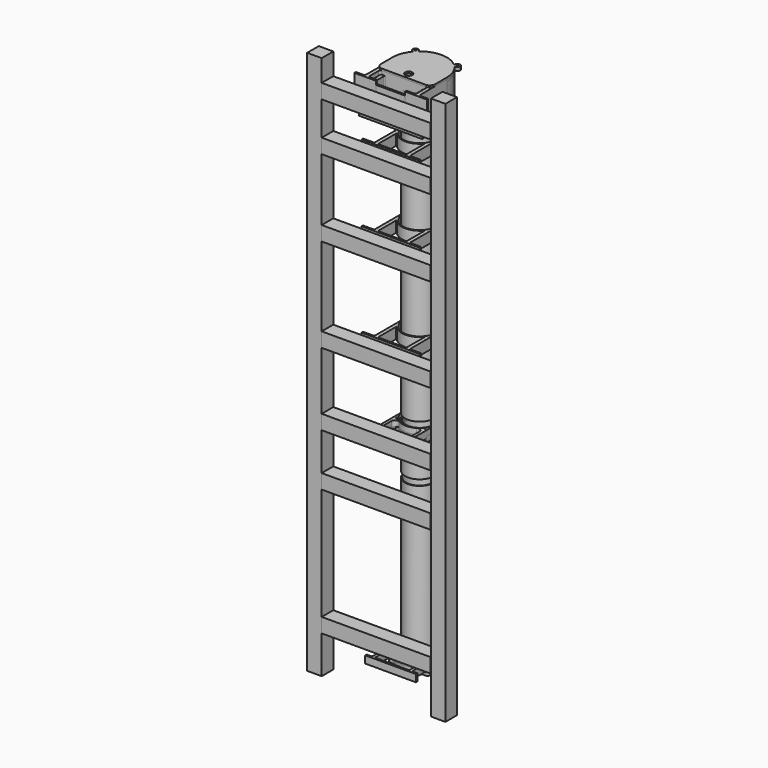
from build123d import *

# Parameters (mm, degrees)
SKETCH032_R             = 40
SKETCH032_R_2           = 38
PAD025_DEPTH            = 124
SKETCH039_R             = 40
SKETCH039_R_2           = 38
PAD031_DEPTH            = 586.5
SKETCH040_R             = 40
SKETCH040_R_2           = 38
PAD032_DEPTH            = 157
SKETCH041_R             = 40
SKETCH041_R_2           = 38
PAD033_DEPTH            = 423.5
SKETCH049_W             = 40
SKETCH049_H             = 40
PAD039_DEPTH            = 1500
SKETCH050_W             = 40
SKETCH050_H             = 40
PAD040_DEPTH            = 300
BODY012_PLACEMENT_ANGLE = 90
SKETCH053_W             = 40
SKETCH053_H             = 40
PAD043_DEPTH            = 300
BODY013_PLACEMENT_ANGLE = 90
SKETCH054_W             = 40
SKETCH054_H             = 40
PAD044_DEPTH            = 300
BODY014_PLACEMENT_ANGLE = 90
SKETCH067_W             = 40
SKETCH067_H             = 40
PAD055_DEPTH            = 300
BODY017_PLACEMENT_ANGLE = 90
SKETCH068_W             = 40
SKETCH068_H             = 40
PAD056_DEPTH            = 300
BODY018_PLACEMENT_ANGLE = 90
SKETCH072_W             = 40
SKETCH072_H             = 40
PAD060_DEPTH            = 1500
SKETCH078_W             = 40
SKETCH078_H             = 40
PAD065_DEPTH            = 300
BODY025_PLACEMENT_ANGLE = 90
SKETCH099_W             = 40
SKETCH099_H             = 40
PAD090_DEPTH            = 300
BODY030_PLACEMENT_ANGLE = 90
PAD101_DEPTH            = 30
SKETCH329_R             = 2.3
POCKET060_DEPTH         = 30
SKETCH330_R             = 3.25
POCKET061_DEPTH         = 5
SKETCH124_R             = 2.25
PAD102_DEPTH            = 10
SKETCH125_R             = 2.25
PAD103_DEPTH            = 5
SKETCH326_R             = 2.25
PAD_DEPTH               = 5
SKETCH327_R             = 2.25
POCKET058_DEPTH         = 83.001
SKETCH328_R             = 3.25
POCKET059_DEPTH         = 5
SKETCH135_R             = 2.25
PAD106_DEPTH            = 10
SKETCH136_R             = 2.25
PAD107_DEPTH            = 5
SKETCH137_R             = 2.25
POCKET017_DEPTH         = 55.001
PAD244_DEPTH            = 10
PAD245_DEPTH            = 5
PAD246_DEPTH            = 10
SKETCH316_R             = 2.25
POCKET054_DEPTH         = 78.001
SKETCH318_R             = 2.25
POCKET055_DEPTH         = 20.001
SKETCH317_R             = 2.25
PAD247_DEPTH            = 10
SKETCH319_R             = 2.25
PAD248_DEPTH            = 5
SKETCH320_R             = 2.25
POCKET056_DEPTH         = 63.001
BODY099_PLACEMENT_ANGLE = 180
SKETCH324_R             = 2.25
SKETCH324_R_2           = 7.5
PAD254_DEPTH            = 5
PAD255_DEPTH            = 5
SKETCH332_W             = 30
SKETCH332_H             = 5
PAD256_DEPTH            = 50
SKETCH333_R             = 2.2
POCKET062_DEPTH         = 5
SKETCH335_R             = 46
PAD258_DEPTH            = 10
PAD259_DEPTH            = 75
SKETCH337_R             = 2.25
PAD260_DEPTH            = 5
SKETCH338_R             = 1.7
POCKET063_DEPTH         = 5
SKETCH339_R             = 3.25
POCKET064_DEPTH         = 5
SKETCH_R                = 50
PAD261_DEPTH            = 5
PAD262_DEPTH            = 80
SKETCH341_R             = 2.25
PAD263_DEPTH            = 5
POCKET_DEPTH            = 5
SKETCH345_R             = 10
POCKET066_DEPTH         = 10
SKETCH346_R             = 1.7
POCKET067_DEPTH         = 5
SKETCH342_R             = 2.25
SKETCH342_R_2           = 10
PAD264_DEPTH            = 5


with BuildPart() as w2_to_w3_pipe:
    # Sketch032 → Pad025 (new body)
    with BuildSketch(Plane.XY):
        Circle(SKETCH032_R)
        Circle(SKETCH032_R_2, mode=Mode.SUBTRACT)
    extrude(amount=PAD025_DEPTH)


with BuildPart() as w2_to_w3_pipe_1:
    # Body005 placement: moved
    add(w2_to_w3_pipe.part.moved(Location((0, 0, 16))))


with BuildPart() as w3_to_end:
    # Sketch039 → Pad031 (new body)
    with BuildSketch(Plane.XY):
        Circle(SKETCH039_R)
        Circle(SKETCH039_R_2, mode=Mode.SUBTRACT)
    extrude(amount=PAD031_DEPTH)


with BuildPart() as w3_to_end_1:
    # Body007 placement: moved
    add(w3_to_end.part.moved(Location((0, 0, 156))))


with BuildPart() as end_to_sample:
    # Sketch040 → Pad032 (new body)
    with BuildSketch(Plane.XY):
        Circle(SKETCH040_R)
        Circle(SKETCH040_R_2, mode=Mode.SUBTRACT)
    extrude(amount=PAD032_DEPTH)


with BuildPart() as end_to_sample_1:
    # Body008 placement: moved
    add(end_to_sample.part.moved(Location((0, 0, 743))))


with BuildPart() as top_to_w2:
    # Sketch041 → Pad033 (new body)
    with BuildSketch(Plane.XY):
        Circle(SKETCH041_R)
        Circle(SKETCH041_R_2, mode=Mode.SUBTRACT)
    extrude(amount=-PAD033_DEPTH)


with BuildPart() as extrusion1:
    # Sketch049 → Pad039 (new body)
    with BuildSketch(Plane.XY):
        Rectangle(SKETCH049_W, SKETCH049_H)
    extrude(amount=PAD039_DEPTH)


with BuildPart() as extrusion1_1:
    # Body011 placement: moved
    add(extrusion1.part.moved(Location((-166, -135, -467))))


with BuildPart() as extrusion002:
    # Sketch050 → Pad040 (new body)
    with BuildSketch(Plane.XY):
        Rectangle(SKETCH050_W, SKETCH050_H)
    extrude(amount=PAD040_DEPTH)


with BuildPart() as extrusion002_1:
    # Body012 placement: moved
    add(extrusion002.part.moved(Location((-146, -135, 350))).rotate(Axis((-146, -135, 350), (0, 1, 0)), BODY012_PLACEMENT_ANGLE))


with BuildPart() as extrusion003:
    # Sketch053 → Pad043 (new body)
    with BuildSketch(Plane.XY):
        Rectangle(SKETCH053_W, SKETCH053_H)
    extrude(amount=PAD043_DEPTH)


with BuildPart() as extrusion003_1:
    # Body013 placement: moved
    add(extrusion003.part.moved(Location((-146, -135, 150))).rotate(Axis((-146, -135, 150), (0, 1, 0)), BODY013_PLACEMENT_ANGLE))


with BuildPart() as extrusion004:
    # Sketch054 → Pad044 (new body)
    with BuildSketch(Plane.XY):
        Rectangle(SKETCH054_W, SKETCH054_H)
    extrude(amount=PAD044_DEPTH)


with BuildPart() as extrusion004_1:
    # Body014 placement: moved
    add(extrusion004.part.moved(Location((-146, -135, 6))).rotate(Axis((-146, -135, 6), (0, 1, 0)), BODY014_PLACEMENT_ANGLE))


with BuildPart() as extrusion005:
    # Sketch067 → Pad055 (new body)
    with BuildSketch(Plane.XY):
        Rectangle(SKETCH067_W, SKETCH067_H)
    extrude(amount=PAD055_DEPTH)


with BuildPart() as extrusion005_1:
    # Body017 placement: moved
    add(extrusion005.part.moved(Location((-146, -135, -343))).rotate(Axis((-146, -135, -343), (0, 1, 0)), BODY017_PLACEMENT_ANGLE))


with BuildPart() as extrusion006:
    # Sketch068 → Pad056 (new body)
    with BuildSketch(Plane.XY):
        Rectangle(SKETCH068_W, SKETCH068_H)
    extrude(amount=PAD056_DEPTH)


with BuildPart() as extrusion006_1:
    # Body018 placement: moved
    add(extrusion006.part.moved(Location((-146, -135, 820))).rotate(Axis((-146, -135, 820), (0, 1, 0)), BODY018_PLACEMENT_ANGLE))


with BuildPart() as extrusion010:
    # Sketch072 → Pad060 (new body)
    with BuildSketch(Plane.XY):
        Rectangle(SKETCH072_W, SKETCH072_H)
    extrude(amount=PAD060_DEPTH)


with BuildPart() as extrusion010_1:
    # Body022 placement: moved
    add(extrusion010.part.moved(Location((175, -135, -467))))


with BuildPart() as extrusion012:
    # Sketch078 → Pad065 (new body)
    with BuildSketch(Plane.XY):
        Rectangle(SKETCH078_W, SKETCH078_H)
    extrude(amount=PAD065_DEPTH)


with BuildPart() as extrusion012_1:
    # Body025 placement: moved
    add(extrusion012.part.moved(Location((-146, -135, 608))).rotate(Axis((-146, -135, 608), (0, 1, 0)), BODY025_PLACEMENT_ANGLE))


with BuildPart() as extrusion013:
    # Sketch099 → Pad090 (new body)
    with BuildSketch(Plane.XY):
        Rectangle(SKETCH099_W, SKETCH099_H)
    extrude(amount=PAD090_DEPTH)


with BuildPart() as extrusion013_1:
    # Body030 placement: moved
    add(extrusion013.part.moved(Location((-146, -135, 953))).rotate(Axis((-146, -135, 953), (0, 1, 0)), BODY030_PLACEMENT_ANGLE))


with BuildPart() as pipesupport001:
    # Sketch121 → Pad101 (new body)
    with BuildSketch(Plane.XY):
        with BuildLine():
            ThreePointArc((-6.328542, 45.562589), (0, -46), (6.328542, 45.562589))
            ThreePointArc((4, 48.236915), (4.663712, 46.463915), (6.328542, 45.562589))
            Line((4, 48.236915), (4, 59.009999))
            ThreePointArc((5, 60.009999), (4.292893, 59.717106), (4, 59.009999))
            Line((5, 60.009999), (7, 60.009999))
            ThreePointArc((8, 59.009999), (7.707107, 59.717106), (7, 60.009999))
            Line((8, 50.009999), (8, 59.009999))
            ThreePointArc((8, 50.009999), (8.45334, 48.741991), (9.607843, 48.048823))
            ThreePointArc((49, 0), (37.893168, 31.066185), (9.607843, 48.048823))
            Line((49, 0), (49, -92))
            ThreePointArc((49, -92), (49.87868, -94.12132), (52, -95))
            Line((52, -95), (79, -95))
            ThreePointArc((80, -96), (79.707107, -95.292893), (79, -95))
            Line((80, -100), (80, -96))
            Line((-80, -100), (80, -100))
            Line((-80, -100), (-80, -96))
            ThreePointArc((-79, -95), (-79.707107, -95.292893), (-80, -96))
            Line((-52, -95), (-79, -95))
            ThreePointArc((-52, -95), (-49.87868, -94.12132), (-49, -92))
            Line((-49, 0), (-49, -92))
            ThreePointArc((-9.607843, 48.048823), (-37.893168, 31.066185), (-49, 0))
            ThreePointArc((-9.607843, 48.048823), (-8.45334, 48.741991), (-8, 50.009999))
            Line((-8, 50.009999), (-8, 59.009999))
            ThreePointArc((-7, 60.009999), (-7.707107, 59.717106), (-8, 59.009999))
            Line((-5, 60.009999), (-7, 60.009999))
            ThreePointArc((-4, 59.009999), (-4.292893, 59.717106), (-5, 60.009999))
            Line((-4, 48.236915), (-4, 59.009999))
            ThreePointArc((-6.328542, 45.562589), (-4.663712, 46.463915), (-4, 48.236915))
        make_face()
        with BuildLine():
            Line((-36, -95), (36, -95))
            ThreePointArc((36, -95), (38.12132, -94.12132), (39, -92))
            Line((39, -92), (39, -32.496154))
            ThreePointArc((39, -32.496154), (38.34641, -31.55807), (37.24, -31.846231))
            ThreePointArc((-37.24, -31.846231), (0, -49), (37.24, -31.846231))
            ThreePointArc((-37.24, -31.846231), (-38.34641, -31.55807), (-39, -32.496154))
            Line((-39, -92), (-39, -32.496154))
            ThreePointArc((-39, -92), (-38.12132, -94.12132), (-36, -95))
        make_face(mode=Mode.SUBTRACT)
    extrude(amount=PAD101_DEPTH)

    # Sketch329 (on Face7 of Pad101) → Pocket060 (cut)
    with BuildSketch(Plane.YZ.offset(8)):
        with Locations((55, 15)):
            Circle(SKETCH329_R)
    extrude(amount=-POCKET060_DEPTH, mode=Mode.SUBTRACT)

    # Sketch330 (on Face22 of Pocket060) → Pocket061 (cut)
    with BuildSketch(Plane(origin=(0, -95, 0), x_dir=(-1, 0, 0), z_dir=(0, 1, 0))):
        with Locations((62.5, 15)):
            Circle(SKETCH330_R)
        with Locations((-62.5, 15)):
            Circle(SKETCH330_R)
    extrude(amount=-POCKET061_DEPTH, mode=Mode.SUBTRACT)


with BuildPart() as pipesupport001_1:
    # Body035 placement: moved
    add(pipesupport001.part.moved(Location((0, 0, -356))))


with BuildPart() as pipesupport002:
    # Body036 base: copy of pipesupport001
    add(pipesupport001_1.part)


with BuildPart() as pipesupport002_1:
    # Clone placement: moved
    add(pipesupport002.part.moved(Location((0, 0, 356))))


with BuildPart() as pipesupport002_2:
    # Body036 placement: moved
    add(pipesupport002_1.part.moved(Location((0, 0, 336))))


with BuildPart() as pipesupport003:
    # Body037 base: copy of pipesupport001
    add(pipesupport001_1.part)


with BuildPart() as pipesupport003_1:
    # Body037 placement: moved
    add(pipesupport003.part.moved(Location((0, 0, 950))))


with BuildPart() as pipesupport004:
    # Body038 base: copy of pipesupport001
    add(pipesupport001_1.part)


with BuildPart() as pipesupport004_1:
    # Body038 placement: moved
    add(pipesupport004.part.moved(Location((0, 0, 1161))))


with BuildPart() as windowsupport003:
    # Sketch124 → Pad102 (new body)
    with BuildSketch(Plane.XY):
        with BuildLine():
            ThreePointArc((-6.571429, 45.528193), (0, -46), (6.571429, 45.528193))
            ThreePointArc((4, 48.497423), (4.732213, 46.533462), (6.571429, 45.528193))
            Line((4, 48.497423), (4, 56.96874))
            ThreePointArc((5, 57.96874), (4.292893, 57.675847), (4, 56.96874))
            Line((7, 57.96874), (5, 57.96874))
            ThreePointArc((8, 56.96874), (7.707107, 57.675847), (7, 57.96874))
            Line((8, 47.96874), (8, 56.96874))
            ThreePointArc((8, 47.96874), (8.448174, 46.70706), (9.591837, 46.010832))
            ThreePointArc((47, 0), (36.467906, 29.649483), (9.591837, 46.010832))
            Line((47, -91), (47, 0))
            ThreePointArc((47, -91), (48.171573, -93.828427), (51, -95))
            Line((73.5, -95), (51, -95))
            ThreePointArc((75, -96.5), (74.56066, -95.43934), (73.5, -95))
            Line((75, -100), (75, -96.5))
            Line((-75, -100), (75, -100))
            Line((-75, -96.5), (-75, -100))
            ThreePointArc((-73.5, -95), (-74.56066, -95.43934), (-75, -96.5))
            Line((-51, -95), (-73.5, -95))
            ThreePointArc((-51, -95), (-48.171573, -93.828427), (-47, -91))
            Line((-47, 0), (-47, -91))
            ThreePointArc((-9.591837, 46.010832), (-36.467906, 29.649483), (-47, 0))
            ThreePointArc((-9.591837, 46.010832), (-8.448174, 46.70706), (-8, 47.96874))
            Line((-8, 47.96874), (-8, 56.96874))
            ThreePointArc((-7, 57.96874), (-7.707107, 57.675847), (-8, 56.96874))
            Line((-7, 57.96874), (-5, 57.96874))
            ThreePointArc((-4, 56.96874), (-4.292893, 57.675847), (-5, 57.96874))
            Line((-4, 48.497423), (-4, 56.96874))
            ThreePointArc((-6.571429, 45.528193), (-4.732213, 46.533462), (-4, 48.497423))
        make_face()
        with Locations((-39, -30)):
            Circle(SKETCH124_R, mode=Mode.SUBTRACT)
        with Locations((39, -30)):
            Circle(SKETCH124_R, mode=Mode.SUBTRACT)
        with BuildLine():
            ThreePointArc((-23.912281, -40.462363), (0, -47), (23.912281, -40.462363))
            ThreePointArc((39, -49.071377), (33.955946, -40.385837), (23.912281, -40.462363))
            Line((39, -91), (39, -49.071377))
            ThreePointArc((35, -95), (37.828427, -93.828427), (39, -91))
            Line((-35, -95), (35, -95))
            ThreePointArc((-39, -91), (-37.828427, -93.828427), (-35, -95))
            Line((-39, -49.071377), (-39, -91))
            ThreePointArc((-23.912281, -40.462363), (-33.955946, -40.385837), (-39, -49.071377))
        make_face(mode=Mode.SUBTRACT)
    extrude(amount=PAD102_DEPTH)

    # Sketch125 → Pad103 (join)
    with BuildSketch(Plane.XY):
        with BuildLine():
            ThreePointArc((-6.487805, 37.442067), (0, -38), (6.487805, 37.442067))
            ThreePointArc((4, 40.39802), (4.704724, 38.466257), (6.487805, 37.442067))
            Line((4, 40.39802), (4, 56.96874))
            ThreePointArc((5, 57.96874), (4.292893, 57.675847), (4, 56.96874))
            Line((7, 57.96874), (5, 57.96874))
            ThreePointArc((8, 56.96874), (7.707107, 57.675847), (7, 57.96874))
            Line((8, 47.96874), (8, 56.96874))
            ThreePointArc((8, 47.96874), (8.448174, 46.70706), (9.591837, 46.010832))
            ThreePointArc((47, 0), (36.467906, 29.649483), (9.591837, 46.010832))
            Line((47, -91), (47, 0))
            ThreePointArc((47, -91), (48.171573, -93.828427), (51, -95))
            Line((73.5, -95), (51, -95))
            ThreePointArc((75, -96.5), (74.56066, -95.43934), (73.5, -95))
            Line((75, -100), (75, -96.5))
            Line((-75, -100), (75, -100))
            Line((-75, -96.5), (-75, -100))
            ThreePointArc((-73.5, -95), (-74.56066, -95.43934), (-75, -96.5))
            Line((-51, -95), (-73.5, -95))
            ThreePointArc((-51, -95), (-48.171573, -93.828427), (-47, -91))
            Line((-47, 0), (-47, -91))
            ThreePointArc((-9.591837, 46.010832), (-36.467906, 29.649483), (-47, 0))
            ThreePointArc((-9.591837, 46.010832), (-8.448174, 46.70706), (-8, 47.96874))
            Line((-8, 47.96874), (-8, 56.96874))
            ThreePointArc((-7, 57.96874), (-7.707107, 57.675847), (-8, 56.96874))
            Line((-7, 57.96874), (-5, 57.96874))
            ThreePointArc((-4, 56.96874), (-4.292893, 57.675847), (-5, 57.96874))
            Line((-4, 40.39802), (-4, 56.96874))
            ThreePointArc((-6.487805, 37.442067), (-4.704724, 38.466257), (-4, 40.39802))
        make_face()
        with Locations((-39, -30)):
            Circle(SKETCH125_R, mode=Mode.SUBTRACT)
        with Locations((39, -30)):
            Circle(SKETCH125_R, mode=Mode.SUBTRACT)
        with BuildLine():
            ThreePointArc((-23.912281, -40.462363), (0, -47), (23.912281, -40.462363))
            ThreePointArc((39, -49.071377), (33.955946, -40.385837), (23.912281, -40.462363))
            Line((39, -91), (39, -49.071377))
            ThreePointArc((35, -95), (37.828427, -93.828427), (39, -91))
            Line((-35, -95), (35, -95))
            ThreePointArc((-39, -91), (-37.828427, -93.828427), (-35, -95))
            Line((-39, -49.071377), (-39, -91))
            ThreePointArc((-23.912281, -40.462363), (-33.955946, -40.385837), (-39, -49.071377))
        make_face(mode=Mode.SUBTRACT)
    extrude(amount=-PAD103_DEPTH)

    # Sketch326 (on Face47 of Pad103) → Pad (join)
    with BuildSketch(Plane(origin=(0, 0, -5), x_dir=(1, 0, 0), z_dir=(0, 0, -1))):
        with BuildLine():
            ThreePointArc((6.522727, -40.477821), (0, 41), (-6.522727, -40.477821))
            ThreePointArc((-4, -43.439613), (-4.716164, -41.494339), (-6.522727, -40.477821))
            Line((-4, -43.439613), (-4, -56.96874))
            ThreePointArc((-5, -57.96874), (-4.292893, -57.675847), (-4, -56.96874))
            Line((-7, -57.96874), (-5, -57.96874))
            ThreePointArc((-8, -56.96874), (-7.707107, -57.675847), (-7, -57.96874))
            Line((-8, -47.96874), (-8, -56.96874))
            ThreePointArc((-8, -47.96874), (-8.448174, -46.70706), (-9.591837, -46.010832))
            ThreePointArc((-47, 0), (-36.467906, -29.649483), (-9.591837, -46.010832))
            Line((-47, 0), (-47, 91))
            ThreePointArc((-47, 91), (-48.171573, 93.828427), (-51, 95))
            Line((-51, 95), (-73.5, 95))
            ThreePointArc((-75, 96.5), (-74.56066, 95.43934), (-73.5, 95))
            Line((-75, 96.5), (-75, 100))
            Line((-75, 100), (75, 100))
            Line((75, 100), (75, 96.5))
            ThreePointArc((73.5, 95), (74.56066, 95.43934), (75, 96.5))
            Line((73.5, 95), (51, 95))
            ThreePointArc((51, 95), (48.171573, 93.828427), (47, 91))
            Line((47, 91), (47, 0))
            ThreePointArc((9.591837, -46.010832), (36.467906, -29.649483), (47, 0))
            ThreePointArc((9.591837, -46.010832), (8.448174, -46.70706), (8, -47.96874))
            Line((8, -47.96874), (8, -56.96874))
            ThreePointArc((7, -57.96874), (7.707107, -57.675847), (8, -56.96874))
            Line((7, -57.96874), (5, -57.96874))
            ThreePointArc((4, -56.96874), (4.292893, -57.675847), (5, -57.96874))
            Line((4, -56.96874), (4, -43.439613))
            ThreePointArc((6.522727, -40.477821), (4.716164, -41.494339), (4, -43.439613))
        make_face()
        with Locations((39, 30)):
            Circle(SKETCH326_R, mode=Mode.SUBTRACT)
        with Locations((-39, 30)):
            Circle(SKETCH326_R, mode=Mode.SUBTRACT)
        with BuildLine():
            ThreePointArc((23.912281, 40.462363), (0, 47), (-23.912281, 40.462363))
            ThreePointArc((-39, 49.071377), (-33.955946, 40.385837), (-23.912281, 40.462363))
            Line((-39, 91), (-39, 49.071377))
            ThreePointArc((-35, 95), (-37.828427, 93.828427), (-39, 91))
            Line((35, 95), (-35, 95))
            ThreePointArc((39, 91), (37.828427, 93.828427), (35, 95))
            Line((39, 49.071377), (39, 91))
            ThreePointArc((23.912281, 40.462363), (33.955946, 40.385837), (39, 49.071377))
        make_face(mode=Mode.SUBTRACT)
    extrude(amount=PAD_DEPTH)

    # Sketch327 (on Face33 of Pad) → Pocket058 (cut, through all)
    with BuildSketch(Plane(origin=(-8, 0, 0), x_dir=(0, -1, 0), z_dir=(-1, 0, 0))):
        with Locations((-52, 5)):
            Circle(SKETCH327_R)
    extrude(amount=-POCKET058_DEPTH, mode=Mode.SUBTRACT)

    # Sketch328 (on Face29 of Pocket058) → Pocket059 (cut)
    with BuildSketch(Plane(origin=(0, -95, 0), x_dir=(-1, 0, 0), z_dir=(0, 1, 0))):
        with Locations((62.5, 0)):
            Circle(SKETCH328_R)
        with Locations((-62.5, 0)):
            Circle(SKETCH328_R)
    extrude(amount=-POCKET059_DEPTH, mode=Mode.SUBTRACT)


with BuildPart() as windowsupport003_1:
    # Body041 placement: moved
    add(windowsupport003.part.moved(Location((0, 0, 134))))


with BuildPart() as windowsupport004:
    # Sketch135 → Pad106 (new body)
    with BuildSketch(Plane.XY):
        with BuildLine():
            ThreePointArc((-6.571429, 45.528193), (0, -46), (6.571429, 45.528193))
            ThreePointArc((4, 48.497423), (4.732213, 46.533462), (6.571429, 45.528193))
            Line((4, 48.497423), (4, 56.96874))
            ThreePointArc((5, 57.96874), (4.292893, 57.675847), (4, 56.96874))
            Line((5, 57.96874), (7, 57.96874))
            ThreePointArc((8, 56.96874), (7.707107, 57.675847), (7, 57.96874))
            Line((8, 47.96874), (8, 56.96874))
            ThreePointArc((8, 47.96874), (8.448174, 46.70706), (9.591837, 46.010832))
            ThreePointArc((47, 0), (36.467906, 29.649483), (9.591837, 46.010832))
            Line((47, -35), (47, 0))
            ThreePointArc((42, -40), (45.535534, -38.535534), (47, -35))
            Line((27.367864, -40), (42, -40))
            ThreePointArc((27.367864, -40), (24.889891, -40.311881), (22.566485, -41.22807))
            ThreePointArc((-22.566485, -41.22807), (0, -47), (22.566485, -41.22807))
            ThreePointArc((-22.566485, -41.22807), (-24.889891, -40.311881), (-27.367864, -40))
            Line((-27.367864, -40), (-42, -40))
            ThreePointArc((-47, -35), (-45.535534, -38.535534), (-42, -40))
            Line((-47, -35), (-47, 0))
            ThreePointArc((-9.591837, 46.010832), (-36.467906, 29.649483), (-47, 0))
            ThreePointArc((-9.591837, 46.010832), (-8.448174, 46.70706), (-8, 47.96874))
            Line((-8, 47.96874), (-8, 56.96874))
            ThreePointArc((-7, 57.96874), (-7.707107, 57.675847), (-8, 56.96874))
            Line((-7, 57.96874), (-5, 57.96874))
            ThreePointArc((-4, 56.96874), (-4.292893, 57.675847), (-5, 57.96874))
            Line((-4, 48.497423), (-4, 56.96874))
            ThreePointArc((-6.571429, 45.528193), (-4.732213, 46.533462), (-4, 48.497423))
        make_face()
        with Locations((-39, -30)):
            Circle(SKETCH135_R, mode=Mode.SUBTRACT)
        with Locations((39, -30)):
            Circle(SKETCH135_R, mode=Mode.SUBTRACT)
    extrude(amount=PAD106_DEPTH)

    # Sketch136 (on Face30 of Pad106) → Pad107 (join)
    with BuildSketch(Plane.XY.offset(10)):
        with BuildLine():
            ThreePointArc((-6.487805, 37.442067), (0, -38), (6.487805, 37.442067))
            ThreePointArc((4, 40.39802), (4.704724, 38.466257), (6.487805, 37.442067))
            Line((4, 40.39802), (4, 56.96874))
            ThreePointArc((5, 57.96874), (4.292893, 57.675847), (4, 56.96874))
            Line((7, 57.96874), (5, 57.96874))
            ThreePointArc((8, 56.96874), (7.707107, 57.675847), (7, 57.96874))
            Line((8, 47.96874), (8, 56.96874))
            ThreePointArc((8, 47.96874), (8.448174, 46.70706), (9.591837, 46.010832))
            ThreePointArc((47, 0), (36.467906, 29.649483), (9.591837, 46.010832))
            Line((47, -35), (47, 0))
            ThreePointArc((42, -40), (45.535534, -38.535534), (47, -35))
            Line((27.367864, -40), (42, -40))
            ThreePointArc((27.367864, -40), (24.889891, -40.311881), (22.566485, -41.22807))
            ThreePointArc((-22.566485, -41.22807), (0, -47), (22.566485, -41.22807))
            ThreePointArc((-22.566485, -41.22807), (-24.889891, -40.311881), (-27.367864, -40))
            Line((-42, -40), (-27.367864, -40))
            ThreePointArc((-47, -35), (-45.535534, -38.535534), (-42, -40))
            Line((-47, 0), (-47, -35))
            ThreePointArc((-9.591837, 46.010832), (-36.467906, 29.649483), (-47, 0))
            ThreePointArc((-9.591837, 46.010832), (-8.448174, 46.70706), (-8, 47.96874))
            Line((-8, 47.96874), (-8, 56.96874))
            ThreePointArc((-7, 57.96874), (-7.707107, 57.675847), (-8, 56.96874))
            Line((-7, 57.96874), (-5, 57.96874))
            ThreePointArc((-4, 56.96874), (-4.292893, 57.675847), (-5, 57.96874))
            Line((-4, 56.96874), (-4, 40.39802))
            ThreePointArc((-6.487805, 37.442067), (-4.704724, 38.466257), (-4, 40.39802))
        make_face()
        with Locations((-39, -30)):
            Circle(SKETCH136_R, mode=Mode.SUBTRACT)
        with Locations((39, -30)):
            Circle(SKETCH136_R, mode=Mode.SUBTRACT)
    extrude(amount=PAD107_DEPTH)

    # Sketch137 (on Face25 of Pad107) → Pocket017 (cut, through all)
    with BuildSketch(Plane(origin=(-8, 0, 0), x_dir=(0, -1, 0), z_dir=(-1, 0, 0))):
        with Locations((-52, 5)):
            Circle(SKETCH137_R)
    extrude(amount=-POCKET017_DEPTH, mode=Mode.SUBTRACT)


with BuildPart() as windowsupport004_1:
    # Body043 placement: moved
    add(windowsupport004.part.moved(Location((0, 0, -25))))


with BuildPart() as windowsupport004_2:
    # Clone004 placement: moved
    add(windowsupport004_1.part.moved(Location((0, 0, 5))))


with BuildPart() as windowsupport004_3:
    # Body044 placement: moved
    add(windowsupport004_2.part.moved(Location((0, 0, 134))))


with BuildPart() as topwindow001:
    # Sketch313 → Pad244 (new body)
    with BuildSketch(Plane.XY):
        with BuildLine():
            ThreePointArc((-7.36, 45.407383), (0, -46), (7.36, 45.407383))
            ThreePointArc((4, 49.355851), (4.953691, 46.763554), (7.36, 45.407383))
            Line((4, 49.355851), (4, 65.115951))
            ThreePointArc((5, 66.115951), (4.292893, 65.823058), (4, 65.115951))
            Line((5, 66.115951), (7, 66.115951))
            ThreePointArc((8, 65.115951), (7.707107, 65.823058), (7, 66.115951))
            Line((8, 56.115951), (8, 65.115951))
            ThreePointArc((8, 56.115951), (8.466743, 54.83177), (9.649123, 54.146971))
            ThreePointArc((55, 0), (42.164569, 35.314999), (9.649123, 54.146971))
            Line((55, 0), (55, -92))
            ThreePointArc((55, -92), (55.87868, -94.12132), (58, -95))
            Line((58, -95), (69, -95))
            ThreePointArc((70, -96), (69.707107, -95.292893), (69, -95))
            Line((70, -100), (70, -96))
            Line((-70, -100), (70, -100))
            Line((-70, -100), (-70, -96))
            ThreePointArc((-69, -95), (-69.707107, -95.292893), (-70, -96))
            Line((-58, -95), (-69, -95))
            ThreePointArc((-58, -95), (-55.87868, -94.12132), (-55, -92))
            Line((-55, 0), (-55, -92))
            ThreePointArc((-9.649123, 54.146971), (-42.164569, 35.314999), (-55, 0))
            ThreePointArc((-9.649123, 54.146971), (-8.466743, 54.83177), (-8, 56.115951))
            Line((-8, 56.115951), (-8, 65.115951))
            ThreePointArc((-7, 66.115951), (-7.707107, 65.823058), (-8, 65.115951))
            Line((-5, 66.115951), (-7, 66.115951))
            ThreePointArc((-4, 65.115951), (-4.292893, 65.823058), (-5, 66.115951))
            Line((-4, 49.355851), (-4, 65.115951))
            ThreePointArc((-7.36, 45.407383), (-4.953691, 46.763554), (-4, 49.355851))
        make_face()
        with BuildLine():
            Line((-44, -95), (44, -95))
            ThreePointArc((44, -95), (46.12132, -94.12132), (47, -92))
            Line((47, -92), (47, -53.441557))
            ThreePointArc((47, -53.441557), (41.640955, -44.583705), (31.307692, -45.219779))
            ThreePointArc((-31.307692, -45.219779), (0, -55), (31.307692, -45.219779))
            ThreePointArc((-31.307692, -45.219779), (-41.640955, -44.583705), (-47, -53.441557))
            Line((-47, -92), (-47, -53.441557))
            ThreePointArc((-47, -92), (-46.12132, -94.12132), (-44, -95))
        make_face(mode=Mode.SUBTRACT)
    extrude(amount=PAD244_DEPTH)

    # Sketch314 → Pad245 (join)
    with BuildSketch(Plane.XY):
        with BuildLine():
            ThreePointArc((-7.238095, 37.304289), (0, -38), (7.238095, 37.304289))
            ThreePointArc((4, 41.231056), (4.913933, 38.68622), (7.238095, 37.304289))
            Line((4, 41.231056), (4, 65.115951))
            ThreePointArc((5, 66.115951), (4.292893, 65.823058), (4, 65.115951))
            Line((5, 66.115951), (7, 66.115951))
            ThreePointArc((8, 65.115951), (7.707107, 65.823058), (7, 66.115951))
            Line((8, 56.115951), (8, 65.115951))
            ThreePointArc((8, 56.115951), (8.466743, 54.83177), (9.649123, 54.146971))
            ThreePointArc((55, 0), (42.164569, 35.314999), (9.649123, 54.146971))
            Line((55, 0), (55, -92))
            ThreePointArc((55, -92), (55.87868, -94.12132), (58, -95))
            Line((58, -95), (69, -95))
            ThreePointArc((70, -96), (69.707107, -95.292893), (69, -95))
            Line((70, -100), (70, -96))
            Line((-70, -100), (70, -100))
            Line((-70, -100), (-70, -96))
            ThreePointArc((-69, -95), (-69.707107, -95.292893), (-70, -96))
            Line((-58, -95), (-69, -95))
            ThreePointArc((-58, -95), (-55.87868, -94.12132), (-55, -92))
            Line((-55, 0), (-55, -92))
            ThreePointArc((-9.649123, 54.146971), (-42.164569, 35.314999), (-55, 0))
            ThreePointArc((-9.649123, 54.146971), (-8.466743, 54.83177), (-8, 56.115951))
            Line((-8, 56.115951), (-8, 65.115951))
            ThreePointArc((-7, 66.115951), (-7.707107, 65.823058), (-8, 65.115951))
            Line((-5, 66.115951), (-7, 66.115951))
            ThreePointArc((-4, 65.115951), (-4.292893, 65.823058), (-5, 66.115951))
            Line((-4, 41.231056), (-4, 65.115951))
            ThreePointArc((-7.238095, 37.304289), (-4.913933, 38.68622), (-4, 41.231056))
        make_face()
        with BuildLine():
            Line((-44, -95), (44, -95))
            ThreePointArc((44, -95), (46.12132, -94.12132), (47, -92))
            Line((47, -92), (47, -53.441557))
            ThreePointArc((47, -53.441557), (41.640955, -44.583705), (31.307692, -45.219779))
            ThreePointArc((-31.307692, -45.219779), (0, -55), (31.307692, -45.219779))
            ThreePointArc((-31.307692, -45.219779), (-41.640955, -44.583705), (-47, -53.441557))
            Line((-47, -92), (-47, -53.441557))
            ThreePointArc((-47, -92), (-46.12132, -94.12132), (-44, -95))
        make_face(mode=Mode.SUBTRACT)
    extrude(amount=-PAD245_DEPTH)

    # Sketch315 → Pad246 (join)
    with BuildSketch(Plane.XY):
        with BuildLine():
            ThreePointArc((-7.418182, 50.457612), (0, -51), (7.418182, 50.457612))
            ThreePointArc((4, 54.415071), (4.97285, 51.800427), (7.418182, 50.457612))
            Line((4, 54.415071), (4, 65.115951))
            ThreePointArc((5, 66.115951), (4.292893, 65.823058), (4, 65.115951))
            Line((5, 66.115951), (7, 66.115951))
            ThreePointArc((8, 65.115951), (7.707107, 65.823058), (7, 66.115951))
            Line((8, 56.115951), (8, 65.115951))
            ThreePointArc((8, 56.115951), (8.466743, 54.83177), (9.649123, 54.146971))
            ThreePointArc((55, 0), (42.164569, 35.314999), (9.649123, 54.146971))
            Line((55, 0), (55, -92))
            ThreePointArc((55, -92), (55.87868, -94.12132), (58, -95))
            Line((58, -95), (69, -95))
            ThreePointArc((70, -96), (69.707107, -95.292893), (69, -95))
            Line((70, -100), (70, -96))
            Line((-70, -100), (70, -100))
            Line((-70, -100), (-70, -96))
            ThreePointArc((-69, -95), (-69.707107, -95.292893), (-70, -96))
            Line((-58, -95), (-69, -95))
            ThreePointArc((-58, -95), (-55.87868, -94.12132), (-55, -92))
            Line((-55, 0), (-55, -92))
            ThreePointArc((-9.649123, 54.146971), (-42.164569, 35.314999), (-55, 0))
            ThreePointArc((-9.649123, 54.146971), (-8.466743, 54.83177), (-8, 56.115951))
            Line((-8, 56.115951), (-8, 65.115951))
            ThreePointArc((-7, 66.115951), (-7.707107, 65.823058), (-8, 65.115951))
            Line((-5, 66.115951), (-7, 66.115951))
            ThreePointArc((-4, 65.115951), (-4.292893, 65.823058), (-5, 66.115951))
            Line((-4, 54.415071), (-4, 65.115951))
            ThreePointArc((-7.418182, 50.457612), (-4.97285, 51.800427), (-4, 54.415071))
        make_face()
        with BuildLine():
            Line((-44, -95), (44, -95))
            ThreePointArc((44, -95), (46.12132, -94.12132), (47, -92))
            Line((47, -92), (47, -53.441557))
            ThreePointArc((47, -53.441557), (41.640955, -44.583705), (31.307692, -45.219779))
            ThreePointArc((-31.307692, -45.219779), (0, -55), (31.307692, -45.219779))
            ThreePointArc((-31.307692, -45.219779), (-41.640955, -44.583705), (-47, -53.441557))
            Line((-47, -92), (-47, -53.441557))
            ThreePointArc((-47, -92), (-46.12132, -94.12132), (-44, -95))
        make_face(mode=Mode.SUBTRACT)
    extrude(amount=-PAD246_DEPTH)

    # Sketch316 (on Face32 of Pad246) → Pocket054 (cut, through all)
    with BuildSketch(Plane(origin=(-8, 0, 0), x_dir=(0, -1, 0), z_dir=(-1, 0, 0))):
        with Locations((-60, 5)):
            Circle(SKETCH316_R)
    extrude(amount=-POCKET054_DEPTH, mode=Mode.SUBTRACT)

    # Sketch318 (on Face5 of Pocket054) → Pocket055 (cut, through all)
    with BuildSketch(Plane.XY.offset(10)):
        with Locations((-47, -30)):
            Circle(SKETCH318_R)
        with Locations((47, -30)):
            Circle(SKETCH318_R)
    extrude(amount=-POCKET055_DEPTH, mode=Mode.SUBTRACT)


with BuildPart() as topwindow001_1:
    # Body098 placement: moved
    add(topwindow001.part.moved(Location((0, 0, -424))))


with BuildPart() as topwindow002:
    # Sketch317 → Pad247 (new body)
    with BuildSketch(Plane.XY):
        with BuildLine():
            Line((-8, 56.115951), (-8, 65.115951))
            ThreePointArc((-7, 66.115951), (-7.707107, 65.823058), (-8, 65.115951))
            Line((-5, 66.115951), (-7, 66.115951))
            ThreePointArc((-4, 65.115951), (-4.292893, 65.823058), (-5, 66.115951))
            Line((-4, 49.355851), (-4, 65.115951))
            ThreePointArc((-7.36, 45.407383), (-4.953691, 46.763554), (-4, 49.355851))
            ThreePointArc((-7.36, 45.407383), (0, -46), (7.36, 45.407383))
            ThreePointArc((4, 49.355851), (4.953691, 46.763554), (7.36, 45.407383))
            Line((4, 49.355851), (4, 65.115951))
            ThreePointArc((5, 66.115951), (4.292893, 65.823058), (4, 65.115951))
            Line((5, 66.115951), (7, 66.115951))
            ThreePointArc((8, 65.115951), (7.707107, 65.823058), (7, 66.115951))
            Line((8, 56.115951), (8, 65.115951))
            ThreePointArc((8, 56.115951), (8.466743, 54.83177), (9.649123, 54.146971))
            ThreePointArc((55, 0), (42.164569, 35.314999), (9.649123, 54.146971))
            Line((55, 0), (55, -35))
            ThreePointArc((50, -40), (53.535534, -38.535534), (55, -35))
            Line((50, -40), (41.533119, -40))
            ThreePointArc((41.533119, -40), (38.136288, -40.594601), (35.143409, -42.307692))
            ThreePointArc((-35.143409, -42.307692), (0, -55), (35.143409, -42.307692))
            ThreePointArc((-35.143409, -42.307692), (-38.136288, -40.594601), (-41.533119, -40))
            Line((-50, -40), (-41.533119, -40))
            ThreePointArc((-55, -35), (-53.535534, -38.535534), (-50, -40))
            Line((-55, 0), (-55, -35))
            ThreePointArc((-9.649123, 54.146971), (-42.164569, 35.314999), (-55, 0))
            ThreePointArc((-9.649123, 54.146971), (-8.466743, 54.83177), (-8, 56.115951))
        make_face()
        with Locations((-47, -30)):
            Circle(SKETCH317_R, mode=Mode.SUBTRACT)
        with Locations((47, -30)):
            Circle(SKETCH317_R, mode=Mode.SUBTRACT)
    extrude(amount=PAD247_DEPTH)

    # Sketch319 → Pad248 (join)
    with BuildSketch(Plane.XY):
        with BuildLine():
            Line((-8, 56.115951), (-8, 65.115951))
            ThreePointArc((-7, 66.115951), (-7.707107, 65.823058), (-8, 65.115951))
            Line((-5, 66.115951), (-7, 66.115951))
            ThreePointArc((-4, 65.115951), (-4.292893, 65.823058), (-5, 66.115951))
            Line((-4, 41.231056), (-4, 65.115951))
            ThreePointArc((-7.238095, 37.304289), (-4.913933, 38.68622), (-4, 41.231056))
            ThreePointArc((-7.238095, 37.304289), (0, -38), (7.238095, 37.304289))
            ThreePointArc((4, 41.231056), (4.913933, 38.68622), (7.238095, 37.304289))
            Line((4, 41.231056), (4, 65.115951))
            ThreePointArc((5, 66.115951), (4.292893, 65.823058), (4, 65.115951))
            Line((5, 66.115951), (7, 66.115951))
            ThreePointArc((8, 65.115951), (7.707107, 65.823058), (7, 66.115951))
            Line((8, 56.115951), (8, 65.115951))
            ThreePointArc((8, 56.115951), (8.466743, 54.83177), (9.649123, 54.146971))
            ThreePointArc((55, 0), (42.164569, 35.314999), (9.649123, 54.146971))
            Line((55, 0), (55, -35))
            ThreePointArc((50, -40), (53.535534, -38.535534), (55, -35))
            Line((50, -40), (41.533119, -40))
            ThreePointArc((41.533119, -40), (38.136288, -40.594601), (35.143409, -42.307692))
            ThreePointArc((-35.143409, -42.307692), (0, -55), (35.143409, -42.307692))
            ThreePointArc((-35.143409, -42.307692), (-38.136288, -40.594601), (-41.533119, -40))
            Line((-50, -40), (-41.533119, -40))
            ThreePointArc((-55, -35), (-53.535534, -38.535534), (-50, -40))
            Line((-55, 0), (-55, -35))
            ThreePointArc((-9.649123, 54.146971), (-42.164569, 35.314999), (-55, 0))
            ThreePointArc((-9.649123, 54.146971), (-8.466743, 54.83177), (-8, 56.115951))
        make_face()
        with Locations((-47, -30)):
            Circle(SKETCH319_R, mode=Mode.SUBTRACT)
        with Locations((47, -30)):
            Circle(SKETCH319_R, mode=Mode.SUBTRACT)
    extrude(amount=-PAD248_DEPTH)

    # Sketch320 (on Face21 of Pad248) → Pocket056 (cut, through all)
    with BuildSketch(Plane.YZ.offset(8)):
        with Locations((60, 2.5)):
            Circle(SKETCH320_R)
    extrude(amount=-POCKET056_DEPTH, mode=Mode.SUBTRACT)


with BuildPart() as topwindow002_1:
    # Body099 placement: moved
    add(topwindow002.part.moved(Location((0, 0, -439))).rotate(Axis((0, 0, -439), (0, 1, 0)), BODY099_PLACEMENT_ANGLE))


with BuildPart() as sample_support002:
    # Sketch324 → Pad254 (new body)
    with BuildSketch(Plane.XY):
        with BuildLine():
            Line((-62.5, 0), (-62.5, -42))
            ThreePointArc((-62.5, -42), (-58.692388, -51.192388), (-49.5, -55))
            Line((-49.5, -55), (49.5, -55))
            ThreePointArc((49.5, -55), (58.692388, -51.192388), (62.5, -42))
            Line((62.5, -42), (62.5, 0))
            ThreePointArc((62.5, 0), (59.270228, 19.831541), (49.914719, 37.613439))
            ThreePointArc((50.638589, 40.616283), (49.567685, 39.285766), (49.914719, 37.613439))
            ThreePointArc((50.638589, 40.616283), (52.666635, 52.666635), (40.616283, 50.638589))
            ThreePointArc((37.613439, 49.914719), (39.285766, 49.567685), (40.616283, 50.638589))
            ThreePointArc((37.613439, 49.914719), (0, 62.5), (-37.613439, 49.914719))
            ThreePointArc((-40.616283, 50.638589), (-39.285766, 49.567685), (-37.613439, 49.914719))
            ThreePointArc((-40.616283, 50.638589), (-52.666635, 52.666635), (-50.638589, 40.616283))
            ThreePointArc((-49.914719, 37.613439), (-49.567685, 39.285766), (-50.638589, 40.616283))
            ThreePointArc((-49.914719, 37.613439), (-59.270228, 19.831541), (-62.5, 0))
        make_face()
        with Locations((-47.363335, 47.363335)):
            Circle(SKETCH324_R, mode=Mode.SUBTRACT)
        with Locations((47.363335, 47.363335)):
            Circle(SKETCH324_R, mode=Mode.SUBTRACT)
        with Locations((0, -37.5)):
            Circle(SKETCH324_R_2, mode=Mode.SUBTRACT)
    extrude(amount=PAD254_DEPTH)


with BuildPart() as sample_support002_1:
    # Body101 placement: moved
    add(sample_support002.part.moved(Location((0, 0, 980))))


with BuildPart() as sample:
    # Sketch331 → Pad255 (new body)
    with BuildSketch(Plane.XY):
        with BuildLine():
            ThreePointArc((15, -20), (0, 25), (-15, -20))
            Line((-15, -20), (-15, -30))
            Line((-15, -30), (15, -30))
            Line((15, -20), (15, -30))
        make_face()
    extrude(amount=PAD255_DEPTH)

    # Sketch332 (on Face6 of Pad255) → Pad256 (join)
    with BuildSketch(Plane.XY.offset(5)):
        with Locations((0, -27.5)):
            Rectangle(SKETCH332_W, SKETCH332_H)
    extrude(amount=PAD256_DEPTH)

    # Sketch333 (on Face9 of Pad256) → Pocket062 (cut)
    with BuildSketch(Plane(origin=(0, -25, 0), x_dir=(-1, 0, 0), z_dir=(0, 1, 0))):
        with Locations((0, 45)):
            Circle(SKETCH333_R)
        with Locations((0, 15)):
            Circle(SKETCH333_R)
    extrude(amount=-POCKET062_DEPTH, mode=Mode.SUBTRACT)


with BuildPart() as sample_1:
    # Body placement: moved
    add(sample.part.moved(Location((0, 0, 900))))


with BuildPart() as sample_support001:
    # Sketch335 → Pad258 (new body)
    with BuildSketch(Plane.XY):
        with BuildLine():
            ThreePointArc((62.5, 0), (0, 62.5), (-62.5, 0))
            Line((-62.5, 0), (-62.5, -92))
            ThreePointArc((-65.5, -95), (-63.37868, -94.12132), (-62.5, -92))
            Line((-65.5, -95), (-85.5, -95))
            ThreePointArc((-85.5, -95), (-86.914214, -95.585786), (-87.5, -97))
            Line((-87.5, -97), (-87.5, -100))
            Line((-87.5, -100), (87.5, -100))
            Line((87.5, -100), (87.5, -97))
            ThreePointArc((87.5, -97), (86.914214, -95.585786), (85.5, -95))
            Line((65.5, -95), (85.5, -95))
            ThreePointArc((62.5, -92), (63.37868, -94.12132), (65.5, -95))
            Line((62.5, 0), (62.5, -92))
        make_face()
        Circle(SKETCH335_R, mode=Mode.SUBTRACT)
        with BuildLine():
            Line((-52.5, -58), (-52.5, -92))
            ThreePointArc((-52.5, -92), (-51.62132, -94.12132), (-49.5, -95))
            Line((-49.5, -95), (49.5, -95))
            ThreePointArc((49.5, -95), (51.62132, -94.12132), (52.5, -92))
            Line((52.5, -92), (52.5, -58))
            ThreePointArc((52.5, -58), (51.62132, -55.87868), (49.5, -55))
            Line((-49.5, -55), (49.5, -55))
            ThreePointArc((-49.5, -55), (-51.62132, -55.87868), (-52.5, -58))
        make_face(mode=Mode.SUBTRACT)
    extrude(amount=PAD258_DEPTH)

    # Sketch336 (on Face23 of Pad258) → Pad259 (join)
    with BuildSketch(Plane.XY.offset(10)):
        with BuildLine():
            ThreePointArc((62.5, 0), (0, 62.5), (-62.5, 0))
            Line((-62.5, 0), (-62.5, -92))
            ThreePointArc((-65.5, -95), (-63.37868, -94.12132), (-62.5, -92))
            Line((-65.5, -95), (-85.5, -95))
            ThreePointArc((-85.5, -95), (-86.914214, -95.585786), (-87.5, -97))
            Line((-87.5, -97), (-87.5, -100))
            Line((-87.5, -100), (87.5, -100))
            Line((87.5, -100), (87.5, -97))
            ThreePointArc((87.5, -97), (86.914214, -95.585786), (85.5, -95))
            Line((85.5, -95), (65.5, -95))
            ThreePointArc((62.5, -92), (63.37868, -94.12132), (65.5, -95))
            Line((62.5, -92), (62.5, 0))
        make_face()
        with BuildLine():
            ThreePointArc((27.5, -50), (0, 57.063561), (-27.5, -50))
            Line((-27.5, -50), (27.5, -50))
        make_face(mode=Mode.SUBTRACT)
        with BuildLine():
            Line((-49.5, -55), (49.5, -55))
            ThreePointArc((52.5, -58), (51.62132, -55.87868), (49.5, -55))
            Line((52.5, -58), (52.5, -92))
            ThreePointArc((49.5, -95), (51.62132, -94.12132), (52.5, -92))
            Line((49.5, -95), (-49.5, -95))
            ThreePointArc((-52.5, -92), (-51.62132, -94.12132), (-49.5, -95))
            Line((-52.5, -92), (-52.5, -58))
            ThreePointArc((-49.5, -55), (-51.62132, -55.87868), (-52.5, -58))
        make_face(mode=Mode.SUBTRACT)
    extrude(amount=PAD259_DEPTH)

    # Sketch337 (on Face26 of Pad259) → Pad260 (join)
    with BuildSketch(Plane.XY.offset(85)):
        with BuildLine():
            ThreePointArc((-49.914719, 37.613439), (-59.270228, 19.831541), (-62.5, 0))
            Line((-62.5, 0), (-62.5, -92))
            ThreePointArc((-65.5, -95), (-63.37868, -94.12132), (-62.5, -92))
            Line((-65.5, -95), (-85.5, -95))
            ThreePointArc((-85.5, -95), (-86.914214, -95.585786), (-87.5, -97))
            Line((-87.5, -97), (-87.5, -100))
            Line((-87.5, -100), (87.5, -100))
            Line((87.5, -100), (87.5, -97))
            ThreePointArc((87.5, -97), (86.914214, -95.585786), (85.5, -95))
            Line((85.5, -95), (65.5, -95))
            ThreePointArc((62.5, -92), (63.37868, -94.12132), (65.5, -95))
            Line((62.5, -92), (62.5, 0))
            ThreePointArc((62.5, 0), (59.270228, 19.831541), (49.914719, 37.613439))
            ThreePointArc((50.638589, 40.616283), (49.567685, 39.285766), (49.914719, 37.613439))
            ThreePointArc((50.638589, 40.616283), (52.666635, 52.666635), (40.616283, 50.638589))
            ThreePointArc((37.613439, 49.914719), (39.285766, 49.567685), (40.616283, 50.638589))
            ThreePointArc((37.613439, 49.914719), (0, 62.5), (-37.613439, 49.914719))
            ThreePointArc((-40.616283, 50.638589), (-39.285766, 49.567685), (-37.613439, 49.914719))
            ThreePointArc((-40.616283, 50.638589), (-52.666635, 52.666635), (-50.638589, 40.616283))
            ThreePointArc((-49.914719, 37.613439), (-49.567685, 39.285766), (-50.638589, 40.616283))
        make_face()
        with Locations((47.363335, 47.363335)):
            Circle(SKETCH337_R, mode=Mode.SUBTRACT)
        with Locations((-47.363335, 47.363335)):
            Circle(SKETCH337_R, mode=Mode.SUBTRACT)
        with BuildLine():
            Line((-49.5, -55), (49.5, -55))
            ThreePointArc((52.5, -58), (51.62132, -55.87868), (49.5, -55))
            Line((52.5, -58), (52.5, -92))
            ThreePointArc((49.5, -95), (51.62132, -94.12132), (52.5, -92))
            Line((49.5, -95), (-49.5, -95))
            ThreePointArc((-52.5, -92), (-51.62132, -94.12132), (-49.5, -95))
            Line((-52.5, -92), (-52.5, -58))
            ThreePointArc((-49.5, -55), (-51.62132, -55.87868), (-52.5, -58))
        make_face(mode=Mode.SUBTRACT)
        with BuildLine():
            ThreePointArc((27.5, -50), (0, 57.063561), (-27.5, -50))
            Line((-27.5, -50), (27.5, -50))
        make_face(mode=Mode.SUBTRACT)
    extrude(amount=PAD260_DEPTH)

    # Sketch338 (on Face70 of Pad260) → Pocket063 (cut)
    with BuildSketch(Plane(origin=(0, -50, 0), x_dir=(-1, 0, 0), z_dir=(0, 1, 0))):
        with Locations((0, 20)):
            Circle(SKETCH338_R)
        with Locations((0, 50)):
            Circle(SKETCH338_R)
    extrude(amount=-POCKET063_DEPTH, mode=Mode.SUBTRACT)

    # Sketch339 (on Face33 of Pocket063) → Pocket064 (cut)
    with BuildSketch(Plane(origin=(0, -95, 0), x_dir=(-1, 0, 0), z_dir=(0, 1, 0))):
        with Locations((75, 45)):
            Circle(SKETCH339_R)
        with Locations((-75, 45)):
            Circle(SKETCH339_R)
    extrude(amount=-POCKET064_DEPTH, mode=Mode.SUBTRACT)


with BuildPart() as sample_support001_1:
    # Body102 placement: moved
    add(sample_support001.part.moved(Location((0, 0, 890))))


with BuildPart() as samplesupport001:
    # Sketch → Pad261 (new body)
    with BuildSketch(Plane.XY):
        with BuildLine():
            Line((-75, -90), (-75, 0))
            ThreePointArc((75, 0), (0, 75), (-75, 0))
            Line((75, -90), (75, 0))
            ThreePointArc((75, -90), (76.464466, -93.535534), (80, -95))
            Line((80, -95), (97, -95))
            ThreePointArc((100, -98), (99.12132, -95.87868), (97, -95))
            Line((100, -98), (100, -100))
            Line((40, -100), (100, -100))
            Line((40, -98), (40, -100))
            ThreePointArc((43, -95), (40.87868, -95.87868), (40, -98))
            Line((60, -95), (43, -95))
            ThreePointArc((60, -95), (63.535534, -93.535534), (65, -90))
            Line((65, -60), (65, -90))
            ThreePointArc((65, -60), (63.535534, -56.464466), (60, -55))
            Line((-60, -55), (60, -55))
            ThreePointArc((-60, -55), (-63.535534, -56.464466), (-65, -60))
            Line((-65, -90), (-65, -60))
            ThreePointArc((-65, -90), (-63.535534, -93.535534), (-60, -95))
            Line((-43, -95), (-60, -95))
            ThreePointArc((-40, -98), (-40.87868, -95.87868), (-43, -95))
            Line((-40, -100), (-40, -98))
            Line((-100, -100), (-40, -100))
            Line((-100, -98), (-100, -100))
            ThreePointArc((-97, -95), (-99.12132, -95.87868), (-100, -98))
            Line((-80, -95), (-97, -95))
            ThreePointArc((-80, -95), (-76.464466, -93.535534), (-75, -90))
        make_face()
        Circle(SKETCH_R, mode=Mode.SUBTRACT)
    extrude(amount=PAD261_DEPTH)

    # Sketch340 (on Face29 of Pad261) → Pad262 (join)
    with BuildSketch(Plane.XY.offset(5)):
        with BuildLine():
            Line((-75, 0), (-75, -90))
            ThreePointArc((-80, -95), (-76.464466, -93.535534), (-75, -90))
            Line((-80, -95), (-97, -95))
            ThreePointArc((-97, -95), (-99.12132, -95.87868), (-100, -98))
            Line((-100, -98), (-100, -100))
            Line((-100, -100), (-40, -100))
            Line((-40, -100), (-40, -98))
            ThreePointArc((-40, -98), (-40.87868, -95.87868), (-43, -95))
            Line((-43, -95), (-60, -95))
            ThreePointArc((-65, -90), (-63.535534, -93.535534), (-60, -95))
            Line((-65, -90), (-65, -60))
            ThreePointArc((-60, -55), (-63.535534, -56.464466), (-65, -60))
            Line((-60, -55), (60, -55))
            ThreePointArc((65, -60), (63.535534, -56.464466), (60, -55))
            Line((65, -60), (65, -90))
            ThreePointArc((60, -95), (63.535534, -93.535534), (65, -90))
            Line((60, -95), (43, -95))
            ThreePointArc((43, -95), (40.87868, -95.87868), (40, -98))
            Line((40, -98), (40, -100))
            Line((40, -100), (100, -100))
            Line((100, -100), (100, -98))
            ThreePointArc((100, -98), (99.12132, -95.87868), (97, -95))
            Line((97, -95), (80, -95))
            ThreePointArc((75, -90), (76.464466, -93.535534), (80, -95))
            Line((75, -90), (75, 0))
            ThreePointArc((75, 0), (0, 75), (-75, 0))
        make_face()
        with BuildLine():
            Line((-65, -50), (65, -50))
            ThreePointArc((65, -50), (68.535534, -48.535534), (70, -45))
            Line((70, -45), (70, 0))
            ThreePointArc((70, 0), (0, 70), (-70, 0))
            Line((-70, -45), (-70, 0))
            ThreePointArc((-70, -45), (-68.535534, -48.535534), (-65, -50))
        make_face(mode=Mode.SUBTRACT)
    extrude(amount=PAD262_DEPTH)

    # Sketch341 (on Face32 of Pad262) → Pad263 (join)
    with BuildSketch(Plane.XY.offset(85)):
        with BuildLine():
            Line((-75, 0), (-75, -90))
            ThreePointArc((-80, -95), (-76.464466, -93.535534), (-75, -90))
            Line((-80, -95), (-97, -95))
            ThreePointArc((-97, -95), (-99.12132, -95.87868), (-100, -98))
            Line((-100, -98), (-100, -100))
            Line((-100, -100), (-40, -100))
            Line((-40, -100), (-40, -98))
            ThreePointArc((-40, -98), (-40.87868, -95.87868), (-43, -95))
            Line((-43, -95), (-60, -95))
            ThreePointArc((-65, -90), (-63.535534, -93.535534), (-60, -95))
            Line((-65, -90), (-65, -60))
            ThreePointArc((-60, -55), (-63.535534, -56.464466), (-65, -60))
            Line((-60, -55), (60, -55))
            ThreePointArc((65, -60), (63.535534, -56.464466), (60, -55))
            Line((65, -60), (65, -90))
            ThreePointArc((60, -95), (63.535534, -93.535534), (65, -90))
            Line((60, -95), (43, -95))
            ThreePointArc((43, -95), (40.87868, -95.87868), (40, -98))
            Line((40, -98), (40, -100))
            Line((40, -100), (100, -100))
            Line((100, -100), (100, -98))
            ThreePointArc((100, -98), (99.12132, -95.87868), (97, -95))
            Line((97, -95), (80, -95))
            ThreePointArc((75, -90), (76.464466, -93.535534), (80, -95))
            Line((75, -90), (75, 0))
            ThreePointArc((75, 0), (70.698112, 25.035514), (58.285947, 47.199029))
            ThreePointArc((59.39334, 50.407101), (57.949704, 49.110263), (58.285947, 47.199029))
            ThreePointArc((59.39334, 50.407101), (63.020768, 63.020768), (50.407101, 59.39334))
            ThreePointArc((47.199029, 58.285947), (49.110263, 57.949704), (50.407101, 59.39334))
            ThreePointArc((47.199029, 58.285947), (0, 75), (-47.199029, 58.285947))
            ThreePointArc((-50.407101, 59.39334), (-49.110263, 57.949704), (-47.199029, 58.285947))
            ThreePointArc((-50.407101, 59.39334), (-63.020768, 63.020768), (-59.39334, 50.407101))
            ThreePointArc((-58.285947, 47.199029), (-57.949704, 49.110263), (-59.39334, 50.407101))
            ThreePointArc((-58.285947, 47.199029), (-70.698112, 25.035514), (-75, 0))
        make_face()
        with Locations((57.717467, 57.717467)):
            Circle(SKETCH341_R, mode=Mode.SUBTRACT)
        with Locations((-57.717467, 57.717467)):
            Circle(SKETCH341_R, mode=Mode.SUBTRACT)
        with BuildLine():
            Line((-65, -50), (65, -50))
            ThreePointArc((65, -50), (68.535534, -48.535534), (70, -45))
            Line((70, -45), (70, 0))
            ThreePointArc((70, 0), (0, 70), (-70, 0))
            Line((-70, -45), (-70, 0))
            ThreePointArc((-70, -45), (-68.535534, -48.535534), (-65, -50))
        make_face(mode=Mode.SUBTRACT)
    extrude(amount=PAD263_DEPTH)

    # Sketch343 (on Face39 of Pad263) → Pocket (cut)
    with BuildSketch(Plane(origin=(0, -95, 0), x_dir=(-1, 0, 0), z_dir=(0, 1, 0))):
        with BuildLine():
            ThreePointArc((90.75, 60), (87.5, 63.25), (84.25, 60))
            Line((84.25, 60), (84.25, 40))
            ThreePointArc((84.25, 40), (87.5, 36.75), (90.75, 40))
            Line((90.75, 60), (90.75, 40))
        make_face()
        with BuildLine():
            ThreePointArc((-84.25, 60), (-87.5, 63.25), (-90.75, 60))
            Line((-90.75, 60), (-90.75, 40))
            ThreePointArc((-90.75, 40), (-87.5, 36.75), (-84.25, 40))
            Line((-84.25, 60), (-84.25, 40))
        make_face()
    extrude(amount=-POCKET_DEPTH, mode=Mode.SUBTRACT)

    # Sketch345 → Pocket066 (cut)
    with BuildSketch(Plane(origin=(-75, 0, 0), x_dir=(0, -1, 0), z_dir=(-1, 0, 0))):
        with Locations((37.5, 45)):
            Circle(SKETCH345_R)
    extrude(amount=-POCKET066_DEPTH, mode=Mode.SUBTRACT)

    # Sketch346 (on Face98 of Pocket066) → Pocket067 (cut)
    with BuildSketch(Plane(origin=(0, -50, 0), x_dir=(-1, 0, 0), z_dir=(0, 1, 0))):
        with Locations((0, 60)):
            Circle(SKETCH346_R)
        with Locations((0, 30)):
            Circle(SKETCH346_R)
        with Locations((-15, 45)):
            Circle(SKETCH346_R)
        with Locations((15, 45)):
            Circle(SKETCH346_R)
    extrude(amount=-POCKET067_DEPTH, mode=Mode.SUBTRACT)


with BuildPart() as samplesupport001_1:
    # Body103 placement: moved
    add(samplesupport001.part.moved(Location((0, 0, 900))))


with BuildPart() as samplesupport002:
    # Sketch342 → Pad264 (new body)
    with BuildSketch(Plane.XY):
        with BuildLine():
            Line((-60, -55), (60, -55))
            ThreePointArc((60, -55), (70.606602, -50.606602), (75, -40))
            Line((75, -40), (75, 0))
            ThreePointArc((75, 0), (70.698112, 25.035514), (58.285947, 47.199029))
            ThreePointArc((59.39334, 50.407101), (57.949704, 49.110263), (58.285947, 47.199029))
            ThreePointArc((59.39334, 50.407101), (63.020768, 63.020768), (50.407101, 59.39334))
            ThreePointArc((47.199029, 58.285947), (49.110263, 57.949704), (50.407101, 59.39334))
            ThreePointArc((47.199029, 58.285947), (0, 75), (-47.199029, 58.285947))
            ThreePointArc((-50.407101, 59.39334), (-49.110263, 57.949704), (-47.199029, 58.285947))
            ThreePointArc((-50.407101, 59.39334), (-63.020768, 63.020768), (-59.39334, 50.407101))
            ThreePointArc((-58.285947, 47.199029), (-57.949704, 49.110263), (-59.39334, 50.407101))
            ThreePointArc((-58.285947, 47.199029), (-70.698112, 25.035514), (-75, 0))
            Line((-75, -40), (-75, 0))
            ThreePointArc((-75, -40), (-70.606602, -50.606602), (-60, -55))
        make_face()
        with Locations((-57.717467, 57.717467)):
            Circle(SKETCH342_R, mode=Mode.SUBTRACT)
        with Locations((57.717467, 57.717467)):
            Circle(SKETCH342_R, mode=Mode.SUBTRACT)
        with Locations((0, -37.5)):
            Circle(SKETCH342_R_2, mode=Mode.SUBTRACT)
    extrude(amount=PAD264_DEPTH)


with BuildPart() as samplesupport002_1:
    # Body104 placement: moved
    add(samplesupport002.part.moved(Location((0, 0, 990))))


solid = Compound([w2_to_w3_pipe_1.part, w3_to_end_1.part, end_to_sample_1.part, top_to_w2.part, extrusion1_1.part, extrusion002_1.part, extrusion003_1.part, extrusion004_1.part, extrusion005_1.part, extrusion006_1.part, extrusion010_1.part, extrusion012_1.part, extrusion013_1.part, pipesupport002_2.part, pipesupport003_1.part, pipesupport004_1.part, windowsupport003_1.part, windowsupport004_3.part, topwindow001_1.part, topwindow002_1.part, sample_support002_1.part, sample_1.part, sample_support001_1.part, samplesupport001_1.part, samplesupport002_1.part])
